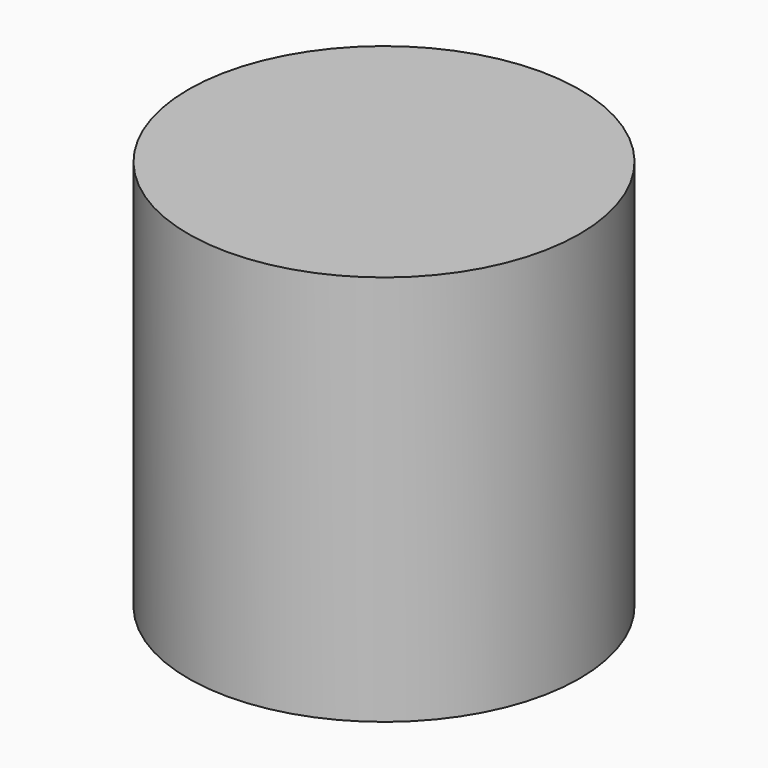
from build123d import *

# Parameters (mm, degrees)
SKETCH_R  = 10
PAD_DEPTH = 20


with BuildPart() as part:
    # Sketch → Pad (new body)
    with BuildSketch(Plane.XY):
        Circle(SKETCH_R)
    extrude(amount=PAD_DEPTH)


solid = part.part
